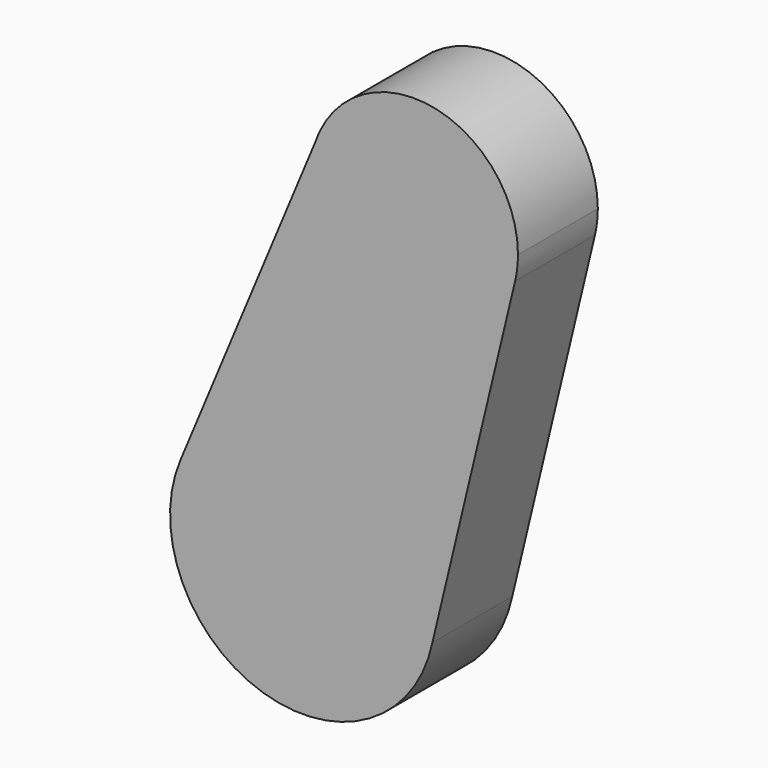
from build123d import *

# Parameters (mm, degrees)
F1_DEPTH = 25


with BuildPart() as f1:
    # F0 (on Front) → F1 (new body)
    with BuildSketch(Plane.XZ):
        with BuildLine():
            ThreePointArc((25.3376785391, 59.0429401925), (25.8751795943, 62.0580267481), (26.0551755857, 65.1153549552))
            ThreePointArc((26.0551755857, 65.1153549552), (5.8012621353, 90.5164874583), (-23.4718391387, 76.4266299607))
            Line((-23.4718391387, 76.4266299607), (25.3376785391, 59.0429401925))
        make_face()
        with BuildLine():
            Line((-24.5620860191, 73.8088068124), (-23.4718391387, 76.4266299607))
            ThreePointArc((-23.4718391387, 76.4266299607), (-24.0526036226, 75.1325618402), (-24.5620860191, 73.8088068124))
        make_face()
        with BuildLine():
            Line((25.3376785391, 59.0429401925), (-23.4718391387, 76.4266299607))
            Line((-23.4718391387, 76.4266299607), (-24.5620860191, 73.8088068124))
            ThreePointArc((-24.5620860191, 73.8088068124), (-7.393110996, 40.1310782075), (25.3376785391, 59.0429401925))
        make_face()
        with BuildLine():
            Line((4.6228356174, -27.3915428669), (25.3376785391, 59.0429401925))
            ThreePointArc((25.3376785391, 59.0429401925), (-7.393110996, 40.1310782075), (-24.5620860191, 73.8088068124))
            Line((-24.5620860191, 73.8088068124), (-58.5364951115, -7.7681242214))
            ThreePointArc((-58.5364951115, -7.7681242214), (-21.3647609006, 12.0316308735), (5.3377552115, -20.5374305092))
            ThreePointArc((5.3377552115, -20.5374305092), (5.1585418132, -23.9830787152), (4.6228356174, -27.3915428669))
        make_face()
        with BuildLine():
            ThreePointArc((-58.5364951115, -7.7681242214), (-37.7303924387, -52.2552905306), (4.6228356174, -27.3915428669))
            ThreePointArc((4.6228356174, -27.3915428669), (5.1585418132, -23.9830787152), (5.3377552115, -20.5374305092))
            ThreePointArc((5.3377552115, -20.5374305092), (-21.3647609006, 12.0316308735), (-58.5364951115, -7.7681242214))
        make_face()
    extrude(amount=F1_DEPTH)


solid = f1.part
